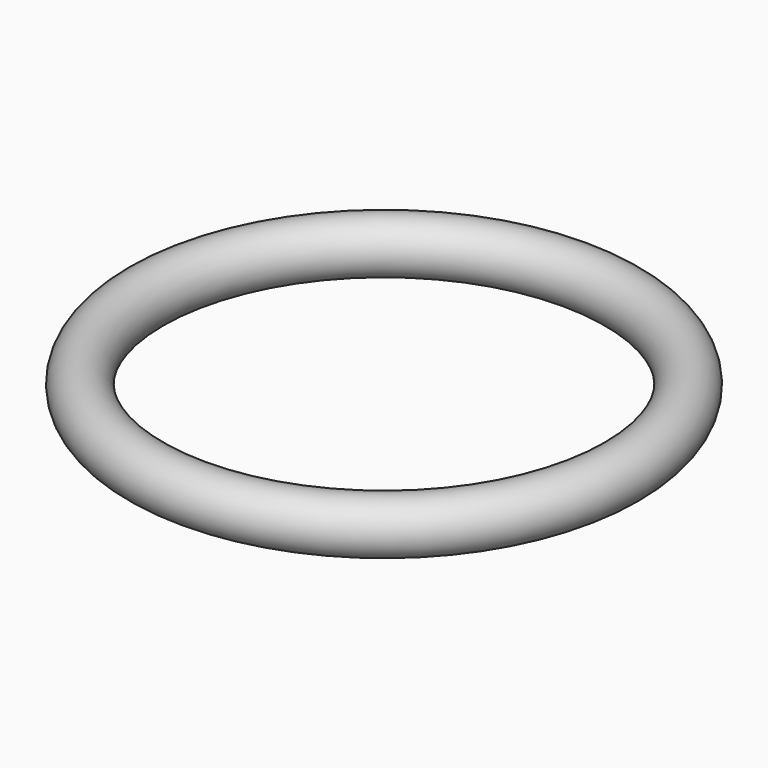
from build123d import *

# Parameters (mm, degrees)
F1_R = 1


with BuildPart() as f2:
    # F2: sweep along a path in F0
    with BuildLine(Plane.XY) as f2_path:
        CenterArc((0, 0), 9, 0, 360)
    # F1 (on Right) → F2 (sweep)
    with BuildSketch(Plane.YZ):
        with Locations((-9, 0)):
            Circle(F1_R)
    sweep(path=f2_path.line)


solid = f2.part
